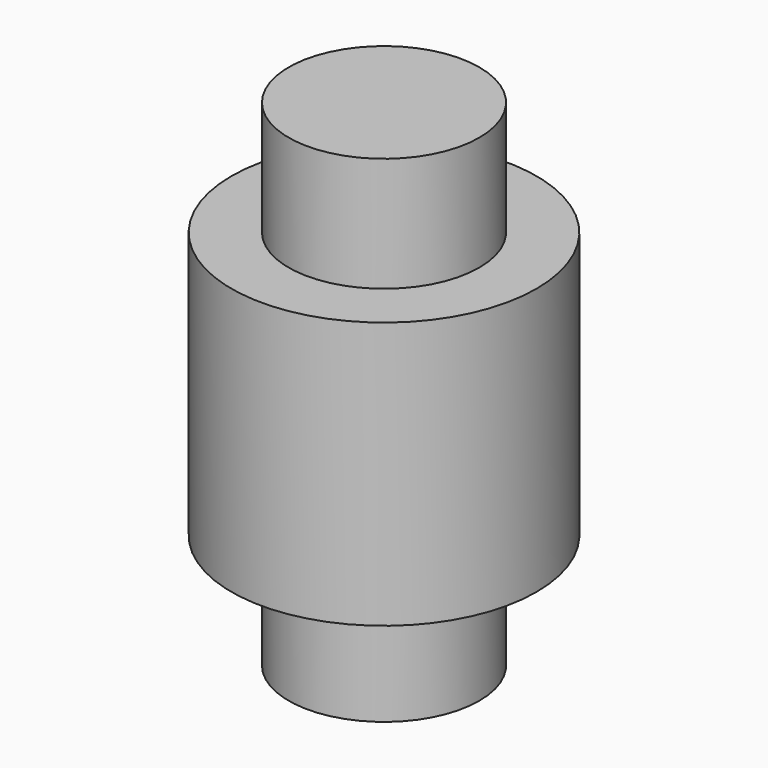
from build123d import *

# Parameters (mm, degrees)
F0_R     = 5
F1_DEPTH = 6
F2_R     = 8
F2_R_2   = 5
F3_DEPTH = 14
F4_R     = 5
F5_DEPTH = 6


with BuildPart() as f1:
    # F0 (on Top) → F1 (new body)
    with BuildSketch(Plane.XY):
        Circle(F0_R)
    extrude(amount=F1_DEPTH)

    # F2 (on face) → F3 (join)
    with BuildSketch(Plane.XY.offset(6)):
        Circle(F2_R)
        Circle(F2_R_2, mode=Mode.SUBTRACT)
        Circle(F2_R_2)
    extrude(amount=F3_DEPTH)

    # F4 (on face) → F5 (join)
    with BuildSketch(Plane.XY.offset(20)):
        Circle(F4_R)
    extrude(amount=F5_DEPTH)


solid = f1.part
